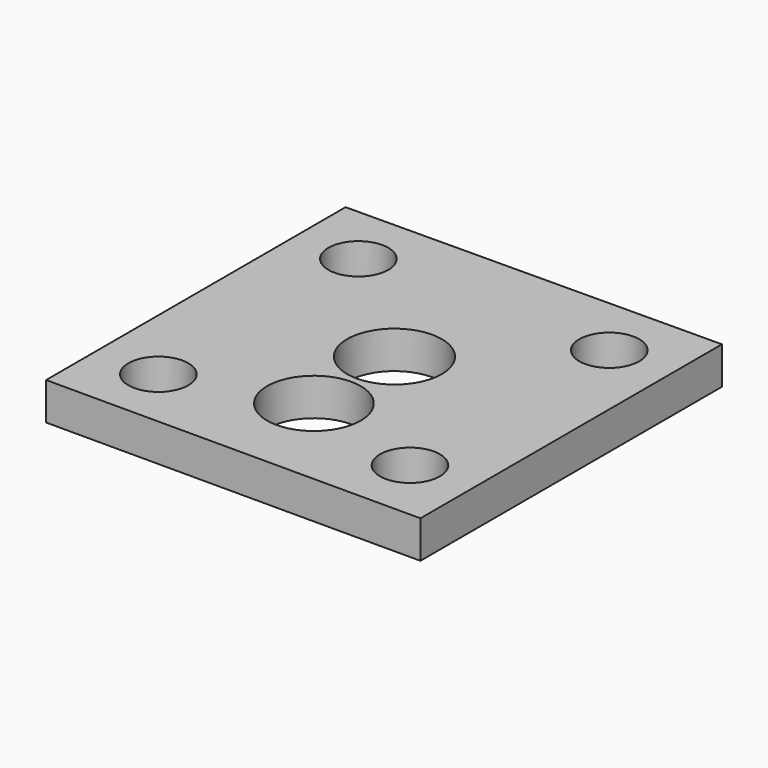
from build123d import *

# Parameters (mm, degrees)
F0_R     = 1.524
F0_R_2   = 2.38125
F0_R_3   = 2.409757
F1_DEPTH = 1.905


with BuildPart() as f1:
    # F0 (on Top) → F1 (new body)
    with BuildSketch(Plane.XY):
        Polygon((-21.506696, 26.976964), (-21.506696, 15.779537), (-21.506696, 14.255537), (-21.506696, 11.080537), (-18.331696, 11.080537), (-5.631696, 11.080537), (-2.456696, 11.080537), (-2.456696, 14.255537), (-2.456696, 14.384539), (-2.456696, 15.908539), (-2.456696, 27.062965), (-2.456696, 30.259539), (-5.653195, 30.237893), (-18.353195, 30.151892), (-21.506696, 30.130537), align=None)
        with Locations((-18.331696, 14.255537)):
            Circle(F0_R, mode=Mode.SUBTRACT)
        with Locations((-5.631696, 14.384539)):
            Circle(F0_R, mode=Mode.SUBTRACT)
        with Locations((-11.940342, 16.160537)):
            Circle(F0_R_2, mode=Mode.SUBTRACT)
        with Locations((-18.331696, 26.976964)):
            Circle(F0_R, mode=Mode.SUBTRACT)
        with Locations((-11.955501, 21.305038)):
            Circle(F0_R_3, mode=Mode.SUBTRACT)
        with Locations((-5.631696, 27.062965)):
            Circle(F0_R, mode=Mode.SUBTRACT)
    extrude(amount=F1_DEPTH)


solid = f1.part
